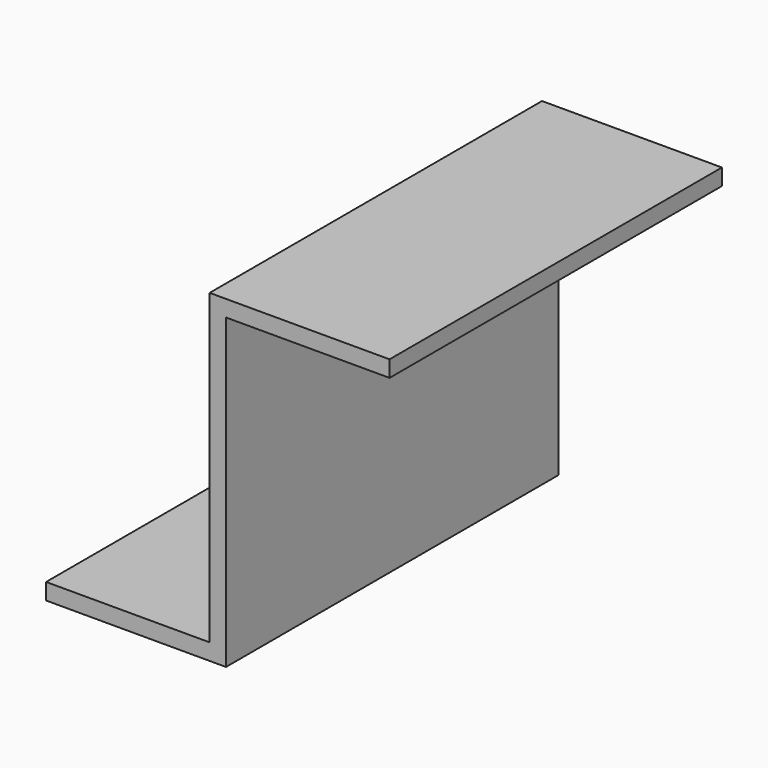
from build123d import *

# Parameters (mm, degrees)
F0_W     = 50
F0_H     = 5
F1_DEPTH = 63.5


with BuildPart() as f1:
    # F0 (on Front) → F1 (new body, symmetric)
    with BuildSketch(Plane.XZ):
        Polygon((-2.5, -49.53), (2.5, -49.53), (2.5, 44.53), (2.5, 49.53), (-2.5, 49.53), (-2.5, -44.53), align=None)
        with Locations((27.5, 47.03)):
            Rectangle(F0_W, F0_H)
        with Locations((-27.5, -47.03)):
            Rectangle(F0_W, F0_H)
    extrude(amount=F1_DEPTH, both=True)


solid = f1.part
